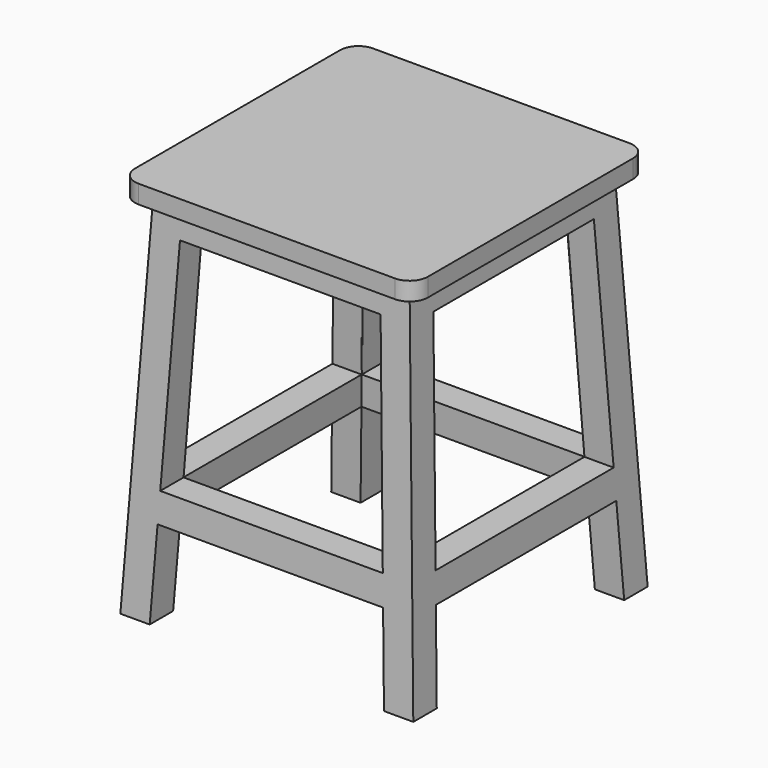
from build123d import *

# Parameters (mm, degrees)
F0_W      = 70
F0_H      = 70
F2_W      = 80
F2_H      = 80
F5_DEPTH  = 62.8
F7_DEPTH  = 96
F8_W      = 61.5800124844
F8_H      = 61.5800124844
F9_W      = 54.7800124844
F9_H      = 54.7800124844
F11_W     = 80
F11_H     = 80
F12_DEPTH = 5
F13_R     = 5


with BuildPart() as f3:
    # F0 (on Top) → F3 section 0
    with BuildSketch(Plane.XY):
        Rectangle(F0_W, F0_H)
    # F2 (on offset) → F3 section 1
    with BuildSketch(Plane.XY.offset(-100)):
        Rectangle(F2_W, F2_H)
    loft()

    # F4 (on Front) → F5 (cut, symmetric)
    with BuildSketch(Plane.XZ):
        Polygon((-31.9900062422, -100), (31.9900062422, -100), (30.7900062422, -76), (-30.7900062422, -76), align=None)
        Polygon((27.3900062422, -8), (-27.3900062422, -8), (-30.3900062422, -68), (30.3900062422, -68), align=None)
    extrude(amount=F5_DEPTH, both=True, mode=Mode.SUBTRACT)

    # F6 (on Right) → F7 (cut, symmetric)
    with BuildSketch(Plane.YZ):
        Polygon((-31.9900062422, -100), (31.9900062422, -100), (30.7900062422, -76), (-30.7900062422, -76), align=None)
        Polygon((30.3900062422, -68), (27.3900062422, -8), (-27.3900062422, -8), (-30.3900062422, -68), align=None)
    extrude(amount=F7_DEPTH, both=True, mode=Mode.SUBTRACT)

    # F8 (on face) → F10 section 0
    with BuildSketch(Plane(origin=(0, 0, -76), x_dir=(1, 0, 0), z_dir=(0, 0, -1))):
        Rectangle(F8_W, F8_H)
    # F9 (on face) → F10 section 1
    with BuildSketch(Plane.XY):
        Rectangle(F9_W, F9_H)
    loft(mode=Mode.SUBTRACT)

    # F11 (on face) → F12 (join)
    with BuildSketch(Plane.XY):
        Rectangle(F11_W, F11_H)
    extrude(amount=F12_DEPTH)

    # F13
    f13_edges = [f3.edges().sort_by_distance(p)[0] for p in [
        (-40, 40, 2.5),
        (-40, -40, 2.5),
        (40, -40, 2.5),
        (40, 40, 2.5),
    ]]
    fillet(f13_edges, radius=F13_R)


solid = f3.part
